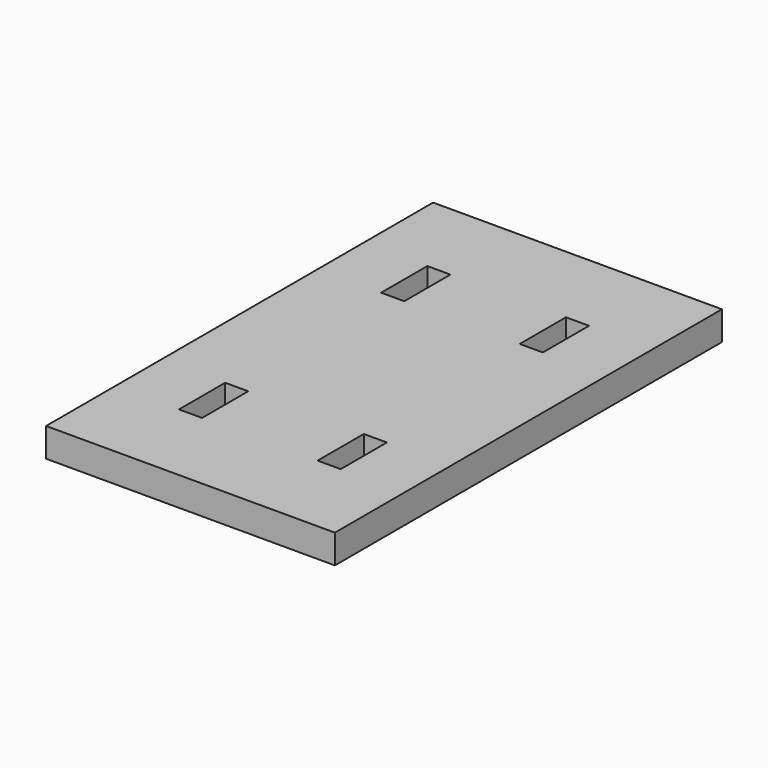
from build123d import *

# Parameters (mm, degrees)
F0_W     = 50.8
F0_H     = 85.09
F1_DEPTH = 5.08
F2_W     = 4.064
F2_H     = 10.16
F3_DEPTH = 25.4


with BuildPart() as f1:
    # F0 (on Top) → F1 (new body)
    with BuildSketch(Plane.XY):
        with Locations((3.704702, 24.286427)):
            Rectangle(F0_W, F0_H)
        with Locations((3.704702, 24.286427)):
            Rectangle(F0_W, F0_H)
    extrude(amount=F1_DEPTH)

    # F2 (on face) → F3 (cut)
    with BuildSketch(Plane.XY.offset(5.08)):
        with Locations((-8.487298, 46.511427)):
            Rectangle(F2_W, F2_H)
        with Locations((15.896702, 46.511427)):
            Rectangle(F2_W, F2_H)
        with Locations((-8.487298, 2.061427)):
            Rectangle(F2_W, F2_H)
        with Locations((15.896702, 2.061427)):
            Rectangle(F2_W, F2_H)
    extrude(amount=-F3_DEPTH, mode=Mode.SUBTRACT)


solid = f1.part
